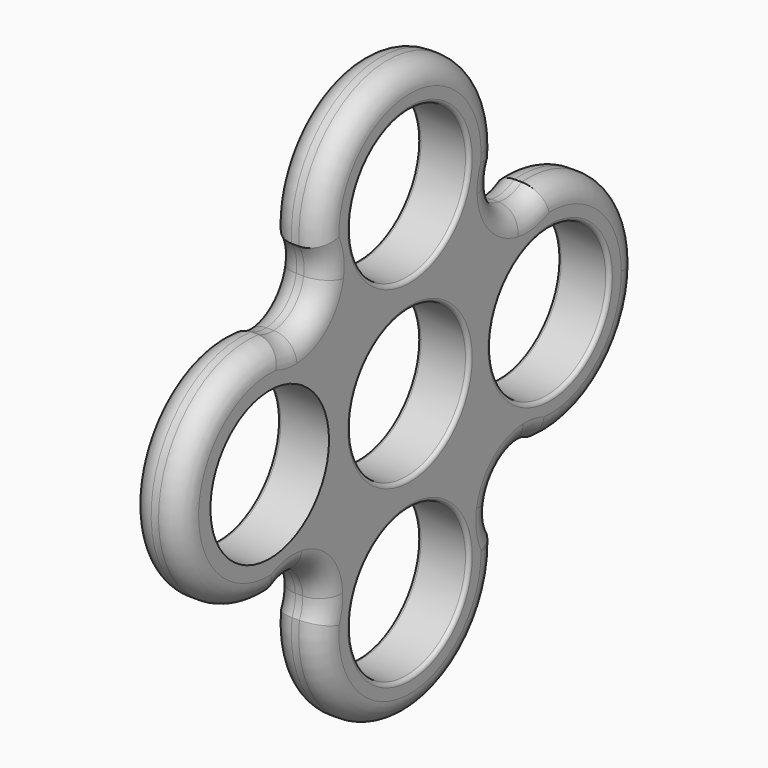
from build123d import *

# Parameters (mm, degrees)
F0_R     = 10
F1_DEPTH = 7
F2_R     = 3
F3_R     = 10
F4_DEPTH = 7
F5_R     = 0.5


with BuildPart() as f1:
    # F0 (on Right) → F1 (new body)
    with BuildSketch(Plane.YZ):
        with BuildLine():
            ThreePointArc((-8.6423686218, 0), (-11.5669596547, 8.8985672036), (-19.2003017254, 14.3271784273))
            ThreePointArc((-19.2003017254, 14.3271784273), (-20.5526558036, 14.4403276349), (-21.8329071962, 14.8904616903))
            ThreePointArc((-21.8329071962, 14.8904616903), (-38.6375046448, 0.381962892), (-22.5933550658, -14.9632740588))
            ThreePointArc((-22.5933550658, -14.9632740588), (-20.7373967468, -14.1987958366), (-18.7303245084, -14.1729256905))
            ThreePointArc((-18.7303245084, -14.1729256905), (-11.4218804625, -8.698256673), (-8.6423686218, 0))
        make_face()
        with Locations((-23.6423686218, 0)):
            Circle(F0_R, mode=Mode.SUBTRACT)
        with BuildLine():
            ThreePointArc((14.8904616903, 21.8329071962), (14.9725903797, 22.7359816608), (15, 23.6423686218))
            ThreePointArc((15, 23.6423686218), (-0.5248281231, 38.6331843248), (-14.9632740588, 22.5933550658))
            ThreePointArc((-14.9632740588, 22.5933550658), (-14.1987958366, 20.7373967468), (-14.1729256905, 18.7303245084))
            ThreePointArc((-14.1729256905, 18.7303245084), (0.2473219012, 8.6444076978), (14.3271784273, 19.2003017254))
            ThreePointArc((14.3271784273, 19.2003017254), (14.4403276349, 20.5526558036), (14.8904616903, 21.8329071962))
        make_face()
        with Locations((0, 23.6423686218)):
            Circle(F0_R, mode=Mode.SUBTRACT)
        with BuildLine():
            ThreePointArc((14.3271784273, 19.2003017254), (0.2473219012, 8.6444076978), (-14.1729256905, 18.7303245084))
            ThreePointArc((-14.1729256905, 18.7303245084), (-15.9134496053, 15.6459766043), (-19.2003017254, 14.3271784273))
            ThreePointArc((-19.2003017254, 14.3271784273), (-11.5669596547, 8.8985672036), (-8.6423686218, 0))
            ThreePointArc((-8.6423686218, 0), (-11.4218804625, -8.698256673), (-18.7303245084, -14.1729256905))
            ThreePointArc((-18.7303245084, -14.1729256905), (-15.6459766043, -15.9134496053), (-14.3271784273, -19.2003017254))
            ThreePointArc((-14.3271784273, -19.2003017254), (-0.2473219012, -8.6444076978), (14.1729256905, -18.7303245084))
            ThreePointArc((14.1729256905, -18.7303245084), (15.9134496053, -15.6459766043), (19.2003017254, -14.3271784273))
            ThreePointArc((19.2003017254, -14.3271784273), (8.6444076978, -0.2473219012), (18.7303245084, 14.1729256905))
            ThreePointArc((18.7303245084, 14.1729256905), (15.6459766043, 15.9134496053), (14.3271784273, 19.2003017254))
        make_face()
        with BuildLine():
            ThreePointArc((22.5933550658, 14.9632740588), (20.7373967468, 14.1987958366), (18.7303245084, 14.1729256905))
            ThreePointArc((18.7303245084, 14.1729256905), (8.6444076978, -0.2473219012), (19.2003017254, -14.3271784273))
            ThreePointArc((19.2003017254, -14.3271784273), (20.5526558036, -14.4403276349), (21.8329071962, -14.8904616903))
            ThreePointArc((21.8329071962, -14.8904616903), (33.5886764447, -11.2281325559), (38.6423686218, 0))
            ThreePointArc((38.6423686218, 0), (33.8713665361, 10.9712169639), (22.5933550658, 14.9632740588))
        make_face()
        with Locations((23.6423686218, 0)):
            Circle(F0_R, mode=Mode.SUBTRACT)
        with BuildLine():
            ThreePointArc((14.9632740588, -22.5933550658), (14.1987958366, -20.7373967468), (14.1729256905, -18.7303245084))
            ThreePointArc((14.1729256905, -18.7303245084), (-0.2473219012, -8.6444076978), (-14.3271784273, -19.2003017254))
            ThreePointArc((-14.3271784273, -19.2003017254), (-14.4403276349, -20.5526558036), (-14.8904616903, -21.8329071962))
            ThreePointArc((-14.8904616903, -21.8329071962), (-0.906386961, -38.6149590014), (15, -23.6423686218))
            ThreePointArc((15, -23.6423686218), (14.990815703, -23.1175404986), (14.9632740588, -22.5933550658))
        make_face()
        with Locations((0, -23.6423686218)):
            Circle(F0_R, mode=Mode.SUBTRACT)
    extrude(amount=F1_DEPTH)

    # F2
    f2_edges = [f1.edges().sort_by_distance(p)[0] for p in [
        (7, 0.381963, 38.637505),
        (7, -15.446047, 16.109202),
        (7, -38.637505, 0.381963),
        (7, -16.109202, -15.446047),
        (7, -0.381963, -38.637505),
        (7, 16.109202, 15.446047),
        (7, 38.637505, -0.381963),
        (7, 15.446047, -16.109202),
        (0, -38.637505, 0.381963),
        (0, -16.109202, -15.446047),
        (0, -0.381963, -38.637505),
        (0, 15.446047, -16.109202),
        (0, 38.637505, -0.381963),
        (0, 16.109202, 15.446047),
        (0, 0.381963, 38.637505),
        (0, -15.446047, 16.109202),
    ]]
    fillet(f2_edges, radius=F2_R)

    # F3 (on Right) → F4 (cut)
    with BuildSketch(Plane.YZ):
        Circle(F3_R)
    extrude(amount=F4_DEPTH, mode=Mode.SUBTRACT)

    # F5
    f5_edges = [f1.edges().sort_by_distance(p)[0] for p in [
        (0, 13.642369, 0),
        (0, -10, 23.642369),
        (0, -10, 0),
        (0, -33.642369, 0),
        (0, -10, -23.642369),
        (7, 13.642369, 0),
        (7, -10, 23.642369),
        (7, -10, 0),
        (7, -10, -23.642369),
    ]]
    fillet(f5_edges, radius=F5_R)


solid = f1.part
